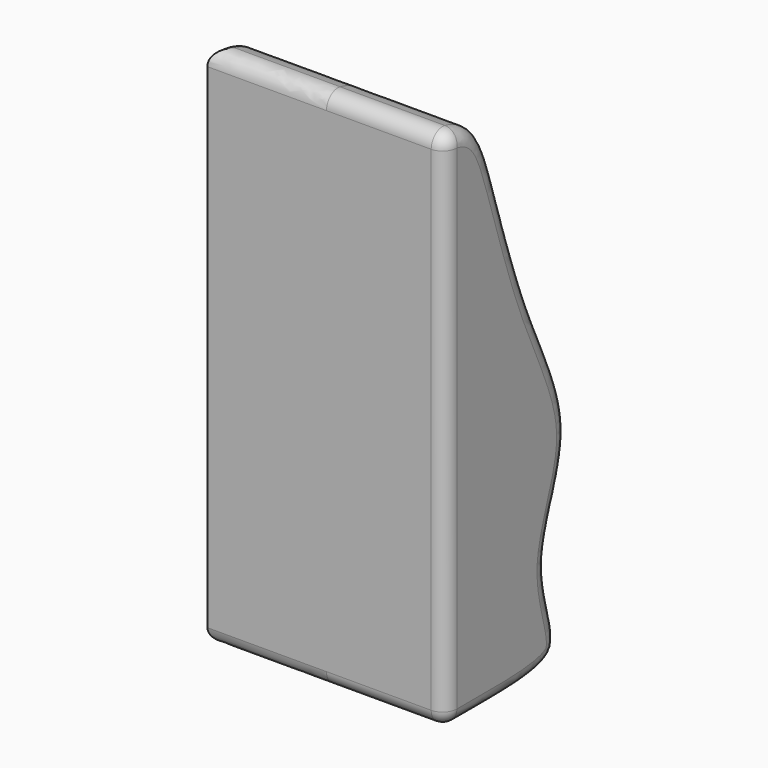
from build123d import *

# Parameters (mm, degrees)
PAD007_DEPTH = 50
FILLET106_R  = 6
FILLET107_R  = 3


with BuildPart() as part:
    # Sketch209 → Pad007 (new body, symmetric)
    with BuildSketch(Plane.YZ):
        with BuildLine():
            Line((-62, 180), (-62, -40))
            add(Edge.make_bspline(
                [(-62, -40), (-28.602824, -40), (9.375834, -41.535614), (-17.31007, 0.343139), (12.33455, 44.176135), (-17.721384, 95.58099), (-36.839079, 162.671751), (-44.692215, 180), (-62, 180)],
                knots=[0, 0, 0, 0, 0.166667, 0.333333, 0.5, 0.666667, 0.833333, 1, 1, 1, 1], degree=3))
        make_face()
    extrude(amount=PAD007_DEPTH, both=True)

    # Fillet106
    fillet106_edges = [part.edges().sort_by_distance(p)[0] for p in [
        (50, -62, 70),
        (50, 1.588759, 53.415026),
        (0, -62, 180),
        (-50, 1.588759, 53.415026),
        (0, -62, -40),
    ]]
    fillet(fillet106_edges, radius=FILLET106_R)

    # Sketch210 → Groove103 (revolve, cut)
    with BuildSketch(Plane.XY):
        with BuildLine():
            Line((0, 25), (0, -25))
            ThreePointArc((0, -25), (25, 0), (0, 25))
        make_face()
    revolve(axis=Axis((0, 0, 0), (0, 1, 0)), mode=Mode.SUBTRACT)

    # Fillet107
    fillet107_edges = [part.edges().sort_by_distance(p)[0] for p in [
        (-23.174151, -7.37844, 5.789418),
        (23.200364, -7.63595, -5.332483),
    ]]
    fillet(fillet107_edges, radius=FILLET107_R)


with BuildPart() as part_1:
    # Body063 placement: moved
    add(part.part.moved(Location((-75, 62, 28.5))))


solid = part_1.part
